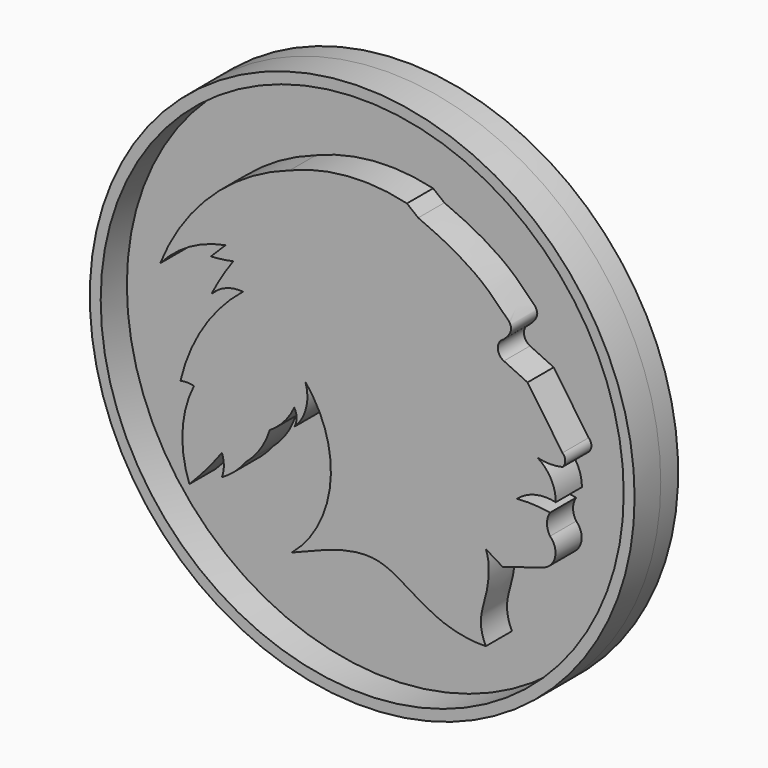
from build123d import *

# Parameters (mm, degrees)
F1_DEPTH = 3.81
F2_R     = 31.75
F3_DEPTH = 2.54
F4_R     = 31.75
F4_R_2   = 30.48
F5_DEPTH = 3.81


with BuildPart() as f1:
    # F0 (on Front) → F1 (new body)
    with BuildSketch(Plane.XZ):
        with BuildLine():
            ThreePointArc((-9.490768629, -1.3346602329), (-7.5579138004, -10.1959187454), (-11.9757633656, -18.1168047711))
            add(Edge.make_bspline(
                [(-11.9757633656, -18.1168047711), (-8.6788288468, -16.8109305471), (-0.7085798365, -12.9941242591), (4.2491846252, -20.5106493086), (10.632770136, -20.3776583076)],
                knots=[0, 0, 0, 0, 0.4687671078, 1, 1, 1, 1], degree=3))
            add(Edge.make_bspline(
                [(10.632770136, -20.3776583076), (9.5688402653, -18.1168047711), (10.8670221827, -15.6541750534), (11.1647350714, -11.6002270952), (10.632770136, -10.4033045936)],
                knots=[0, 0, 0, 0, 0.5100040037, 1, 1, 1, 1], degree=3))
            Line((10.632770136, -10.4033045936), (12.6101998612, -11.6002270952))
            Line((12.6101998612, -11.6002270952), (17.3009453116, -10.1345536336))
            ThreePointArc((17.3009453116, -10.1345536336), (18.7044248726, -8.6295905373), (18.1271620095, -6.6543851337))
            ThreePointArc((18.1271620095, -6.6543851337), (17.7609364545, -5.4440140925), (18.1271620095, -4.2336430513))
            ThreePointArc((18.1271620095, -4.2336430513), (16.1953531955, -4.0262946088), (14.2529871893, -4.0720435791))
            ThreePointArc((14.2529871893, -4.0720435791), (16.3835840937, -2.966440153), (18.7839437276, -2.9577376776))
            ThreePointArc((18.7839437276, -2.9577376776), (18.2358957511, -0.745902377), (16.6805734693, 0.9194938466))
            ThreePointArc((16.6805734693, 0.9194938466), (18.1263272568, 0.7485939687), (19.5720810443, 0.9194938466))
            ThreePointArc((19.5720810443, 0.9194938466), (19.8916762952, 1.6419528984), (19.5720810443, 2.3644119501))
            Line((19.5720810443, 2.3644119501), (15.5000379309, 8.2754427567))
            Line((15.5000379309, 8.2754427567), (12.7415545285, 9.5735524578))
            ThreePointArc((12.7415545285, 9.5735524578), (12.0335327597, 10.6892403766), (12.7415545285, 11.8049282954))
            add(Edge.make_bspline(
                [(12.7415545285, 11.8049282954), (14.1864735633, 13.1356231868), (12.0090058877, 14.9494300325), (9.3262922019, 18.2585157454), (2.758481307, 21.0169982165)],
                knots=[0, 0, 0, 0, 0.319915039, 1, 1, 1, 1], degree=3))
            Line((2.758481307, 21.0169982165), (1.4449184528, 22.067848593))
            ThreePointArc((1.4449184528, 22.067848593), (-5.4689477613, 22.6258669897), (-12.2161302716, 21.0169982165))
            ThreePointArc((-12.2161302716, 21.0169982165), (-9.0028375656, 21.108873418), (-5.9110308066, 20.2288608998))
            ThreePointArc((-5.9110308066, 20.2288608998), (-5.2455840138, 15.8889747559), (-3.0211936682, 12.103539673))
            Line((-3.0211936682, 12.103539673), (-2.7584815398, 8.9322244748))
            ThreePointArc((-2.7584815398, 8.9322244748), (-4.6246008318, 9.3548412144), (-5.9110308066, 10.7712112367))
            ThreePointArc((-5.9110308066, 10.7712112367), (-5.2226948374, 8.8923289621), (-3.9406875148, 7.3559493758))
            ThreePointArc((-3.9406875148, 7.3559493758), (-5.2100932333, 6.3710945105), (-5.3856056184, 4.7740580718))
            ThreePointArc((-5.3856056184, 4.7740580718), (-7.4024444819, 5.8251218986), (-8.800867945, 7.6186619699))
            ThreePointArc((-8.800867945, 7.6186619699), (-8.2937158366, 4.7740580718), (-6.6991681233, 2.3644124158))
            Line((-6.6991681233, 2.3644124158), (-9.490768629, -1.3346602329))
        make_face()
        with BuildLine():
            ThreePointArc((-10.3771425784, -0.1313562243), (-9.9163961048, -0.7200736067), (-9.490768629, -1.3346602329))
            Line((-9.490768629, -1.3346602329), (-6.6991681233, 2.3644124158))
            ThreePointArc((-6.6991681233, 2.3644124158), (-8.2937158366, 4.7740580718), (-8.800867945, 7.6186619699))
            ThreePointArc((-8.800867945, 7.6186619699), (-7.4024444819, 5.8251218986), (-5.3856056184, 4.7740580718))
            ThreePointArc((-5.3856056184, 4.7740580718), (-5.2100932333, 6.3710945105), (-3.9406875148, 7.3559493758))
            ThreePointArc((-3.9406875148, 7.3559493758), (-5.2226948374, 8.8923289621), (-5.9110308066, 10.7712112367))
            ThreePointArc((-5.9110308066, 10.7712112367), (-4.6246008318, 9.3548412144), (-2.7584815398, 8.9322244748))
            Line((-2.7584815398, 8.9322244748), (-3.0211936682, 12.103539673))
            ThreePointArc((-3.0211936682, 12.103539673), (-5.2455840138, 15.8889747559), (-5.9110308066, 20.2288608998))
            ThreePointArc((-5.9110308066, 20.2288608998), (-7.598774869, 16.7427838954), (-10.5084991083, 14.1864744946))
            ThreePointArc((-10.5084991083, 14.1864744946), (-14.310113243, 11.2544111439), (-18.7984901373, 9.5503752357))
            ThreePointArc((-18.7984901373, 9.5503752357), (-20.1461563966, 7.5151055238), (-21.3393694118, 5.3856056184))
            ThreePointArc((-21.3393694118, 5.3856056184), (-19.6646079386, 6.5122872739), (-17.6666259792, 6.799176861))
            ThreePointArc((-17.6666259792, 6.799176861), (-22.2777243118, 1.6461002584), (-24.9566711947, -4.7288248315))
            ThreePointArc((-24.9566711947, -4.7288248315), (-24.1690406807, -4.6266738785), (-23.3814101666, -4.7288248315))
            ThreePointArc((-23.3814101666, -4.7288248315), (-24.7171946121, -9.7966888996), (-23.9068362862, -14.9746118113))
            ThreePointArc((-23.9068362862, -14.9746118113), (-21.9285237695, -12.8211326146), (-20.1180858814, -10.5247206922))
            ThreePointArc((-20.1180858814, -10.5247206922), (-19.8952019997, -11.7823043694), (-20.1180858814, -13.0398880467))
            ThreePointArc((-20.1180858814, -13.0398880467), (-18.5751404017, -11.9233883582), (-17.2824760725, -10.5247206922))
            ThreePointArc((-17.2824760725, -10.5247206922), (-15.6233412168, -8.6544844694), (-14.5544138715, -6.3944166985))
            ThreePointArc((-14.5544138715, -6.3944166985), (-12.8845675565, -4.9837137902), (-11.6907050833, -3.1525497325))
            ThreePointArc((-11.6907050833, -3.1525497325), (-11.4178286352, -4.1377216112), (-11.6907050833, -5.1228934899))
            ThreePointArc((-11.6907050833, -5.1228934899), (-10.3231984381, -2.8141578647), (-10.3771425784, -0.1313562243))
        make_face()
        with BuildLine():
            ThreePointArc((-10.5084991083, 14.1864744946), (-7.598774869, 16.7427838954), (-5.9110308066, 20.2288608998))
            ThreePointArc((-5.9110308066, 20.2288608998), (-9.0028375656, 21.108873418), (-12.2161302716, 21.0169982165))
            ThreePointArc((-12.2161302716, 21.0169982165), (-21.3393694118, 15.4340351557), (-27.3220986128, 6.5678115934))
            ThreePointArc((-27.3220986128, 6.5678115934), (-23.8845666313, 9.3886545614), (-19.7034366429, 10.9025677666))
            Line((-19.7034366429, 10.9025677666), (-21.4110668749, 9.1949366033))
            ThreePointArc((-21.4110668749, 9.1949366033), (-20.0976158669, 9.3200084503), (-18.7984901373, 9.5503752357))
            ThreePointArc((-18.7984901373, 9.5503752357), (-14.310113243, 11.2544111439), (-10.5084991083, 14.1864744946))
        make_face()
    extrude(amount=F1_DEPTH)


with BuildPart() as f3:
    # F2 (on face) → F3 (new body)
    with BuildSketch(Plane(origin=(0, 0, 0), x_dir=(-1, 0, 0), z_dir=(0, 1, 0))):
        with Locations((3.7710163716, 0.5527688936)):
            Circle(F2_R)
        with BuildLine():
            Line((-15.5000379309, 8.2754427567), (-12.7415545285, 9.5735524578))
            ThreePointArc((-12.7415545285, 9.5735524578), (-12.0335327597, 10.6892403766), (-12.7415545285, 11.8049282954))
            add(Edge.make_bspline(
                [(-12.7415545285, 11.8049282954), (-14.1864735633, 13.1356231868), (-12.0090058877, 14.9494300325), (-9.3262922019, 18.2585157454), (-2.758481307, 21.0169982165)],
                knots=[0, 0, 0, 0, 0.319915039, 1, 1, 1, 1], degree=3))
            Line((-2.758481307, 21.0169982165), (-1.4449184528, 22.067848593))
            ThreePointArc((-1.4449184528, 22.067848593), (5.4689477613, 22.6258669897), (12.2161302716, 21.0169982165))
            ThreePointArc((12.2161302716, 21.0169982165), (21.3393694118, 15.4340351557), (27.3220986128, 6.5678115934))
            ThreePointArc((27.3220986128, 6.5678115934), (23.8845666313, 9.3886545614), (19.7034366429, 10.9025677666))
            Line((19.7034366429, 10.9025677666), (21.4110668749, 9.1949366033))
            ThreePointArc((21.4110668749, 9.1949366033), (20.0976158669, 9.3200084503), (18.7984901373, 9.5503752357))
            ThreePointArc((18.7984901373, 9.5503752357), (20.1461563966, 7.5151055238), (21.3393694118, 5.3856056184))
            ThreePointArc((21.3393694118, 5.3856056184), (19.6646079386, 6.5122872739), (17.6666259792, 6.799176861))
            ThreePointArc((17.6666259792, 6.799176861), (22.2777243118, 1.6461002584), (24.9566711947, -4.7288248315))
            ThreePointArc((24.9566711947, -4.7288248315), (24.1690406807, -4.6266738785), (23.3814101666, -4.7288248315))
            ThreePointArc((23.3814101666, -4.7288248315), (24.7171946121, -9.7966888996), (23.9068362862, -14.9746118113))
            ThreePointArc((23.9068362862, -14.9746118113), (21.9285237695, -12.8211326146), (20.1180858814, -10.5247206922))
            ThreePointArc((20.1180858814, -10.5247206922), (19.8952019997, -11.7823043694), (20.1180858814, -13.0398880467))
            ThreePointArc((20.1180858814, -13.0398880467), (18.5751404017, -11.9233883582), (17.2824760725, -10.5247206922))
            ThreePointArc((17.2824760725, -10.5247206922), (15.6233412168, -8.6544844694), (14.5544138715, -6.3944166985))
            ThreePointArc((14.5544138715, -6.3944166985), (12.8845675565, -4.9837137902), (11.6907050833, -3.1525497325))
            ThreePointArc((11.6907050833, -3.1525497325), (11.4178286352, -4.1377216112), (11.6907050833, -5.1228934899))
            ThreePointArc((11.6907050833, -5.1228934899), (10.3231984381, -2.8141578647), (10.3771425784, -0.1313562243))
            ThreePointArc((10.3771425784, -0.1313562243), (7.4700314009, -9.4535225216), (11.9757633656, -18.1168047711))
            add(Edge.make_bspline(
                [(11.9757633656, -18.1168047711), (8.6788288468, -16.8109305471), (0.7085798365, -12.9941242591), (-4.2491846252, -20.5106493086), (-10.632770136, -20.3776583076)],
                knots=[0, 0, 0, 0, 0.4687671078, 1, 1, 1, 1], degree=3))
            add(Edge.make_bspline(
                [(-10.632770136, -20.3776583076), (-9.5688402653, -18.1168047711), (-10.8670221827, -15.6541750534), (-11.1647350714, -11.6002270952), (-10.632770136, -10.4033045936)],
                knots=[0, 0, 0, 0, 0.5100040037, 1, 1, 1, 1], degree=3))
            Line((-10.632770136, -10.4033045936), (-12.6101998612, -11.6002270952))
            Line((-12.6101998612, -11.6002270952), (-17.3009453116, -10.1345536336))
            ThreePointArc((-17.3009453116, -10.1345536336), (-18.7044248726, -8.6295905373), (-18.1271620095, -6.6543851337))
            ThreePointArc((-18.1271620095, -6.6543851337), (-17.7609364545, -5.4440140925), (-18.1271620095, -4.2336430513))
            ThreePointArc((-18.1271620095, -4.2336430513), (-16.1953531955, -4.0262946088), (-14.2529871893, -4.0720435791))
            ThreePointArc((-14.2529871893, -4.0720435791), (-16.3835840937, -2.966440153), (-18.7839437276, -2.9577376776))
            ThreePointArc((-18.7839437276, -2.9577376776), (-18.2358957511, -0.745902377), (-16.6805734693, 0.9194938466))
            ThreePointArc((-16.6805734693, 0.9194938466), (-18.1263272568, 0.7485939687), (-19.5720810443, 0.9194938466))
            ThreePointArc((-19.5720810443, 0.9194938466), (-19.8916762952, 1.6419528984), (-19.5720810443, 2.3644119501))
            Line((-19.5720810443, 2.3644119501), (-15.5000379309, 8.2754427567))
        make_face(mode=Mode.SUBTRACT)
        with BuildLine():
            ThreePointArc((-12.7415545285, 11.8049282954), (-12.0335327597, 10.6892403766), (-12.7415545285, 9.5735524578))
            Line((-12.7415545285, 9.5735524578), (-15.5000379309, 8.2754427567))
            Line((-15.5000379309, 8.2754427567), (-19.5720810443, 2.3644119501))
            ThreePointArc((-19.5720810443, 2.3644119501), (-19.8916762952, 1.6419528984), (-19.5720810443, 0.9194938466))
            ThreePointArc((-19.5720810443, 0.9194938466), (-18.1263272568, 0.7485939687), (-16.6805734693, 0.9194938466))
            ThreePointArc((-16.6805734693, 0.9194938466), (-18.2358957511, -0.745902377), (-18.7839437276, -2.9577376776))
            ThreePointArc((-18.7839437276, -2.9577376776), (-16.3835840937, -2.966440153), (-14.2529871893, -4.0720435791))
            ThreePointArc((-14.2529871893, -4.0720435791), (-16.1953531955, -4.0262946088), (-18.1271620095, -4.2336430513))
            ThreePointArc((-18.1271620095, -4.2336430513), (-17.7609364545, -5.4440140925), (-18.1271620095, -6.6543851337))
            ThreePointArc((-18.1271620095, -6.6543851337), (-18.7044248726, -8.6295905373), (-17.3009453116, -10.1345536336))
            Line((-17.3009453116, -10.1345536336), (-12.6101998612, -11.6002270952))
            Line((-12.6101998612, -11.6002270952), (-10.632770136, -10.4033045936))
            add(Edge.make_bspline(
                [(-10.632770136, -20.3776583076), (-9.5688402653, -18.1168047711), (-10.8670221827, -15.6541750534), (-11.1647350714, -11.6002270952), (-10.632770136, -10.4033045936)],
                knots=[0, 0, 0, 0, 0.5100040037, 1, 1, 1, 1], degree=3))
            add(Edge.make_bspline(
                [(11.9757633656, -18.1168047711), (8.6788288468, -16.8109305471), (0.7085798365, -12.9941242591), (-4.2491846252, -20.5106493086), (-10.632770136, -20.3776583076)],
                knots=[0, 0, 0, 0, 0.4687671078, 1, 1, 1, 1], degree=3))
            ThreePointArc((11.9757633656, -18.1168047711), (7.4700314009, -9.4535225216), (10.3771425784, -0.1313562243))
            ThreePointArc((10.3771425784, -0.1313562243), (10.3231984381, -2.8141578647), (11.6907050833, -5.1228934899))
            ThreePointArc((11.6907050833, -5.1228934899), (11.4178286352, -4.1377216112), (11.6907050833, -3.1525497325))
            ThreePointArc((11.6907050833, -3.1525497325), (12.8845675565, -4.9837137902), (14.5544138715, -6.3944166985))
            ThreePointArc((14.5544138715, -6.3944166985), (15.6233412168, -8.6544844694), (17.2824760725, -10.5247206922))
            ThreePointArc((17.2824760725, -10.5247206922), (18.5751404017, -11.9233883582), (20.1180858814, -13.0398880467))
            ThreePointArc((20.1180858814, -13.0398880467), (19.8952019997, -11.7823043694), (20.1180858814, -10.5247206922))
            ThreePointArc((20.1180858814, -10.5247206922), (21.9285237695, -12.8211326146), (23.9068362862, -14.9746118113))
            ThreePointArc((23.9068362862, -14.9746118113), (24.7171946121, -9.7966888996), (23.3814101666, -4.7288248315))
            ThreePointArc((23.3814101666, -4.7288248315), (24.1690406807, -4.6266738785), (24.9566711947, -4.7288248315))
            ThreePointArc((24.9566711947, -4.7288248315), (22.2777243118, 1.6461002584), (17.6666259792, 6.799176861))
            ThreePointArc((17.6666259792, 6.799176861), (19.6646079386, 6.5122872739), (21.3393694118, 5.3856056184))
            ThreePointArc((21.3393694118, 5.3856056184), (20.1461563966, 7.5151055238), (18.7984901373, 9.5503752357))
            ThreePointArc((18.7984901373, 9.5503752357), (20.0976158669, 9.3200084503), (21.4110668749, 9.1949366033))
            Line((21.4110668749, 9.1949366033), (19.7034366429, 10.9025677666))
            ThreePointArc((19.7034366429, 10.9025677666), (23.8845666313, 9.3886545614), (27.3220986128, 6.5678115934))
            ThreePointArc((27.3220986128, 6.5678115934), (21.3393694118, 15.4340351557), (12.2161302716, 21.0169982165))
            ThreePointArc((12.2161302716, 21.0169982165), (5.4689477613, 22.6258669897), (-1.4449184528, 22.067848593))
            Line((-1.4449184528, 22.067848593), (-2.758481307, 21.0169982165))
            add(Edge.make_bspline(
                [(-12.7415545285, 11.8049282954), (-14.1864735633, 13.1356231868), (-12.0090058877, 14.9494300325), (-9.3262922019, 18.2585157454), (-2.758481307, 21.0169982165)],
                knots=[0, 0, 0, 0, 0.319915039, 1, 1, 1, 1], degree=3))
        make_face()
    extrude(amount=F3_DEPTH)

    # F4 (on face) → F5 (join)
    with BuildSketch(Plane.XZ):
        with Locations((-3.7710163716, 0.5527688936)):
            Circle(F4_R)
        with Locations((-3.7710163716, 0.5527688936)):
            Circle(F4_R_2, mode=Mode.SUBTRACT)
    extrude(amount=F5_DEPTH)


solid = Compound([f1.part, f3.part])
